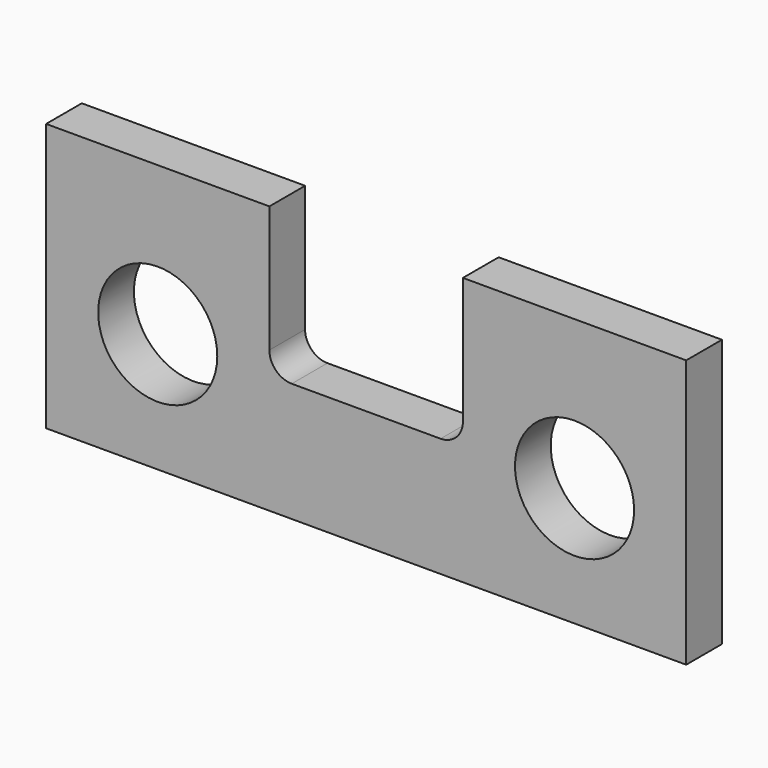
from build123d import *

# Parameters (mm, degrees)
F1_W     = 273.05
F1_H     = 114.3
F1_R     = 25.4
F2_DEPTH = 19.05
F3_DEPTH = 25.4
F5_DEPTH = 25.4


with BuildPart() as f2:
    # F1 (on face) → F2 (new body)
    with BuildSketch(Plane.XZ):
        with Locations((136.525, 57.15)):
            Rectangle(F1_W, F1_H)
        with Locations((47.625, 50.8)):
            Circle(F1_R, mode=Mode.SUBTRACT)
        with Locations((225.425, 50.8)):
            Circle(F1_R, mode=Mode.SUBTRACT)
    extrude(amount=F2_DEPTH)

    # F1 (on face) → F3 (cut)
    with BuildSketch(Plane.XZ):
        with Locations((47.625, 50.8)):
            Circle(F1_R)
        with Locations((225.425, 50.8)):
            Circle(F1_R)
    extrude(amount=-F3_DEPTH, mode=Mode.SUBTRACT)

    # F4 (on face) → F5 (cut)
    with BuildSketch(Plane.XZ.offset(19.05)):
        with BuildLine():
            Line((177.8, 114.3), (95.25, 114.3))
            Line((95.25, 114.3), (95.25, 60.325))
            ThreePointArc((95.25, 60.325), (98.039808, 53.589808), (104.775, 50.8))
            Line((104.775, 50.8), (168.275, 50.8))
            ThreePointArc((168.275, 50.8), (175.010192, 53.589808), (177.8, 60.325))
            Line((177.8, 60.325), (177.8, 114.3))
        make_face()
    extrude(amount=-F5_DEPTH, mode=Mode.SUBTRACT)


solid = f2.part
